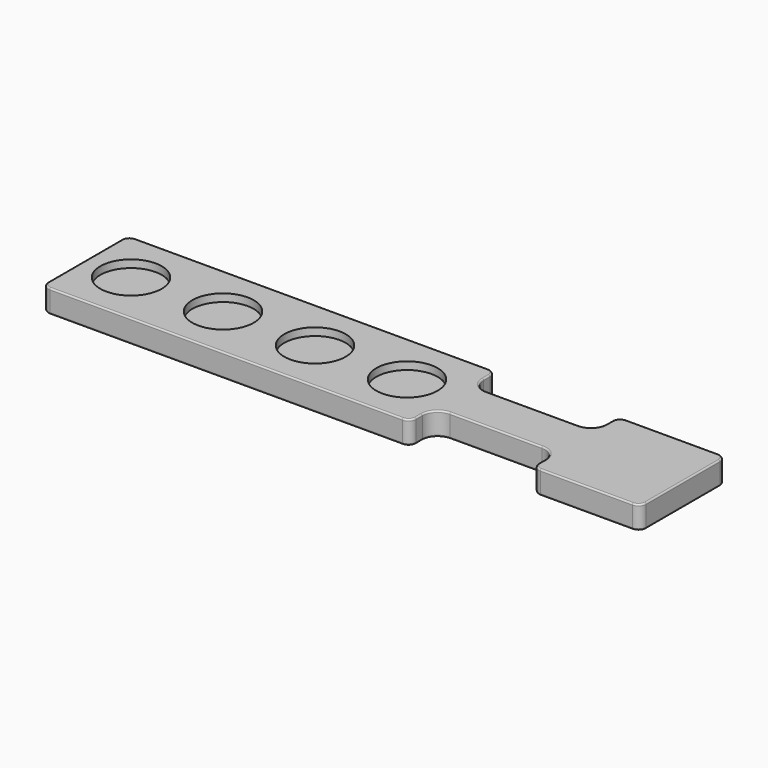
from build123d import *

# Parameters (mm, degrees)
F0_W     = 495.3
F0_H     = 88.9
F1_DEPTH = 19.05
F2_W     = 101.6
F2_H     = 25.4
F3_DEPTH = 19.05
F4_R     = 6.35
F5_R     = 12.7
F6_R     = 25.4
F7_DEPTH = 6.35
F8_R     = 1.27


with BuildPart() as f1:
    # F0 (on Top) → F1 (new body)
    with BuildSketch(Plane.XY):
        Rectangle(F0_W, F0_H)
    extrude(amount=F1_DEPTH)

    # F2 (on face) → F3 (cut, through all)
    with BuildSketch(Plane.XY.offset(19.05)):
        with Locations((107.95, -31.75)):
            Rectangle(F2_W, F2_H)
        with Locations((107.95, 31.75)):
            Rectangle(F2_W, F2_H)
    extrude(amount=-F3_DEPTH, mode=Mode.SUBTRACT)

    # F4
    f4_edges = [f1.edges().sort_by_distance(p)[0] for p in [
        (-247.65, -44.45, 9.525),
        (57.15, -44.45, 9.525),
        (-247.65, 44.45, 9.525),
        (57.15, 44.45, 9.525),
        (158.75, 44.45, 9.525),
        (158.75, -44.45, 9.525),
        (247.65, -44.45, 9.525),
        (247.65, 44.45, 9.525),
    ]]
    fillet(f4_edges, radius=F4_R)

    # F5
    f5_edges = [f1.edges().sort_by_distance(p)[0] for p in [
        (57.15, -19.05, 9.525),
        (57.15, 19.05, 9.525),
        (158.75, 19.05, 9.525),
        (158.75, -19.05, 9.525),
    ]]
    fillet(f5_edges, radius=F5_R)

    # F6 (on face) → F7 (cut)
    with BuildSketch(Plane.XY.offset(19.05)):
        with Locations((-209.55, 0)):
            Circle(F6_R)
        with Locations((-133.35, 0)):
            Circle(F6_R)
        with Locations((-57.15, 0)):
            Circle(F6_R)
        with Locations((19.05, 0)):
            Circle(F6_R)
    extrude(amount=-F7_DEPTH, mode=Mode.SUBTRACT)

    # F8
    f8_edges = [f1.edges().sort_by_distance(p)[0] for p in [
        (-95.25, -44.45, 19.05),
        (-95.25, -44.45, 0),
    ]]
    fillet(f8_edges, radius=F8_R)


solid = f1.part
